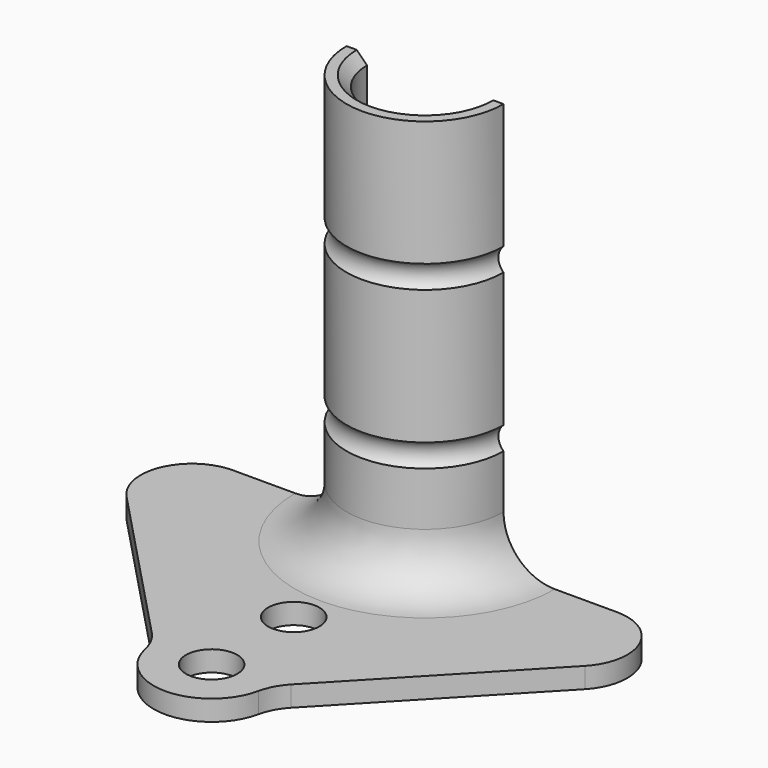
from build123d import *

# Parameters (mm, degrees)
F2_R     = 2.5
F3_DEPTH = 2
F5_DEPTH = 40
F6_R     = 5


with BuildPart() as f3:
    # F2 (on Top) → F3 (new body)
    with BuildSketch(Plane.XY):
        with BuildLine():
            ThreePointArc((5.65, 0), (0, -5.65), (-5.65, 0))
            Line((-5.65, 0), (-30.3692883162, 0))
            Line((-30.3692883162, 0), (-5.65, -26))
            ThreePointArc((-5.65, -26), (0, -31.65), (5.65, -26))
            Line((5.65, -26), (30.3692883162, 0))
            Line((30.3692883162, 0), (5.65, 0))
        make_face()
        with Locations((0, -26)):
            Circle(F2_R, mode=Mode.SUBTRACT)
        with Locations((0, -16)):
            Circle(F2_R, mode=Mode.SUBTRACT)
    extrude(amount=F3_DEPTH)

    # F4 (on face) → F5 (join)
    with BuildSketch(Plane.XY.offset(2)):
        with BuildLine():
            ThreePointArc((5.65, 0), (0, -5.65), (-5.65, 0))
            Line((-5.65, 0), (-7.65, 0))
            ThreePointArc((-7.65, 0), (0, -7.65), (7.65, 0))
            Line((7.65, 0), (5.65, 0))
        make_face()
    extrude(amount=F5_DEPTH)

    # F6
    f6_edges = [f3.edges().sort_by_distance(p)[0] for p in [
        (0, -7.65, 2),
        (-30.369288, 0, 1),
        (-5.65, -26, 1),
        (5.65, -26, 1),
        (30.369288, 0, 1),
    ]]
    fillet(f6_edges, radius=F6_R)

    # F7 (on face) → F8 (revolve, cut)
    with BuildSketch(Plane(origin=(0, 0, 0), x_dir=(-1, 0, 0), z_dir=(0, 1, 0))):
        with BuildLine():
            ThreePointArc((8.65, 14.8333333333), (7.15, 13.3333333333), (8.65, 11.8333333333))
            Line((8.65, 11.8333333333), (8.65, 14.8333333333))
        make_face()
        with BuildLine():
            ThreePointArc((8.65, 30.1666666667), (7.15, 28.6666666667), (8.65, 27.1666666667))
            Line((8.65, 27.1666666667), (8.65, 30.1666666667))
        make_face()
        Polygon((5.65, 41), (6.65, 42), (5.65, 42), align=None)
    revolve(axis=Axis((0, 0, 10.5), (0, 0, -1)), mode=Mode.SUBTRACT)


solid = f3.part
